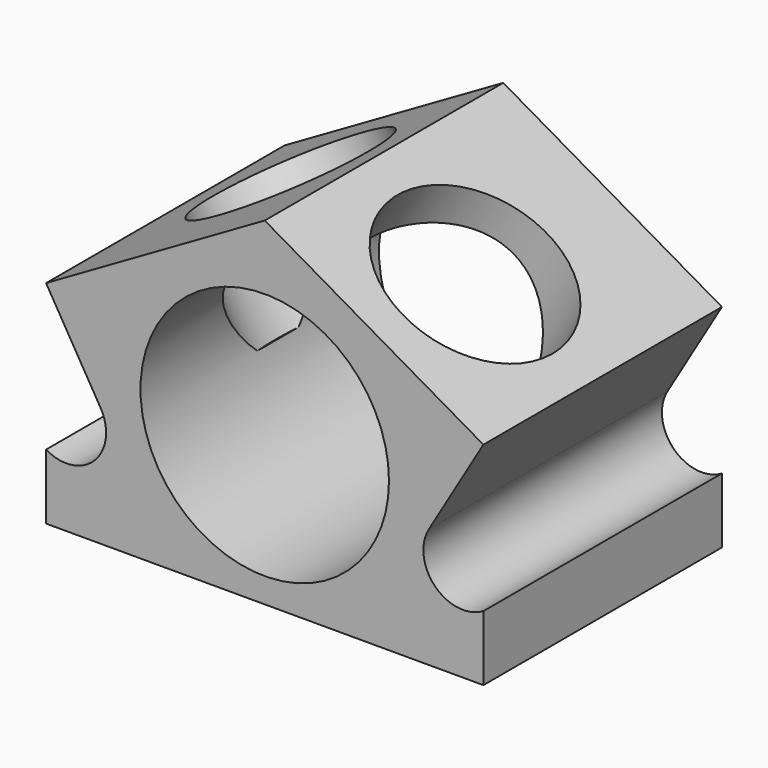
from build123d import *

# Parameters (mm, degrees)
F1_DEPTH = 381
F2_R     = 114.3
F3_DEPTH = 114.3
F4_R     = 114.3
F5_DEPTH = 157.48


with BuildPart() as f1:
    # F0 (on Front) → F1 (new body)
    with BuildSketch(Plane.XZ):
        with BuildLine():
            Line((-253.5002529621, -215.9), (0, -215.9))
            Line((0, -215.9), (0, -184.15))
            ThreePointArc((0, -184.15), (-158.75, -25.4), (0, 133.35))
            Line((0, 133.35), (0, 215.9))
            Line((0, 215.9), (-279.4, 54.6750131028))
            Line((-279.4, 54.6750131028), (-209.7759521092, -63.0383388986))
            ThreePointArc((-209.7759521092, -63.0383388986), (-204.5010974422, -75.4939283033), (-202.7002529621, -88.9))
            ThreePointArc((-202.7002529621, -88.9), (-217.5792284778, -124.8210244843), (-253.5002529621, -139.7))
            Line((-253.5002529621, -139.7), (-253.5002529621, -215.9))
        make_face()
        with BuildLine():
            Line((-279.4, -215.9), (-253.5002529621, -215.9))
            Line((-253.5002529621, -215.9), (-253.5002529621, -139.7))
            ThreePointArc((-253.5002529621, -139.7), (-266.9276691811, -137.8933107034), (-279.4, -132.6017517197))
            Line((-279.4, -132.6017517197), (-279.4, -215.9))
        make_face()
        with BuildLine():
            Line((0, -215.9), (279.4, -215.9))
            Line((279.4, -215.9), (279.4, -182.111337781))
            Line((279.4, -182.111337781), (279.4, -132.6017517197))
            ThreePointArc((279.4, -132.6017517197), (217.5948803765, -124.8366695659), (209.7759521092, -63.0383388986))
            Line((209.7759521092, -63.0383388986), (279.4, 54.6750131028))
            Line((279.4, 54.6750131028), (0, 215.9))
            Line((0, 215.9), (0, 133.35))
            ThreePointArc((0, 133.35), (112.2532015134, 86.8532015134), (158.75, -25.4))
            ThreePointArc((158.75, -25.4), (112.2532015134, -137.6532015134), (0, -184.15))
            Line((0, -184.15), (0, -215.9))
        make_face()
    extrude(amount=F1_DEPTH)

    # F2 (on face) → F3 (cut)
    with BuildSketch(Plane(origin=(93.4623118289, 0, 161.968503937), x_dir=(0.8661417323, 0, -0.499798459), z_dir=(0.499798459, 0, 0.8661417323))):
        with Locations((53.3835127066, -219.71)):
            Circle(F2_R)
    extrude(amount=-F3_DEPTH, mode=Mode.SUBTRACT)

    # F4 (on face) → F5 (cut)
    with BuildSketch(Plane(origin=(-93.4623118289, 0, 161.968503937), x_dir=(0.8661417323, 0, 0.499798459), z_dir=(-0.499798459, 0, 0.8661417323))):
        with Locations((-53.3835127066, -165.1)):
            Circle(F4_R)
    extrude(amount=-F5_DEPTH, mode=Mode.SUBTRACT)


solid = f1.part
